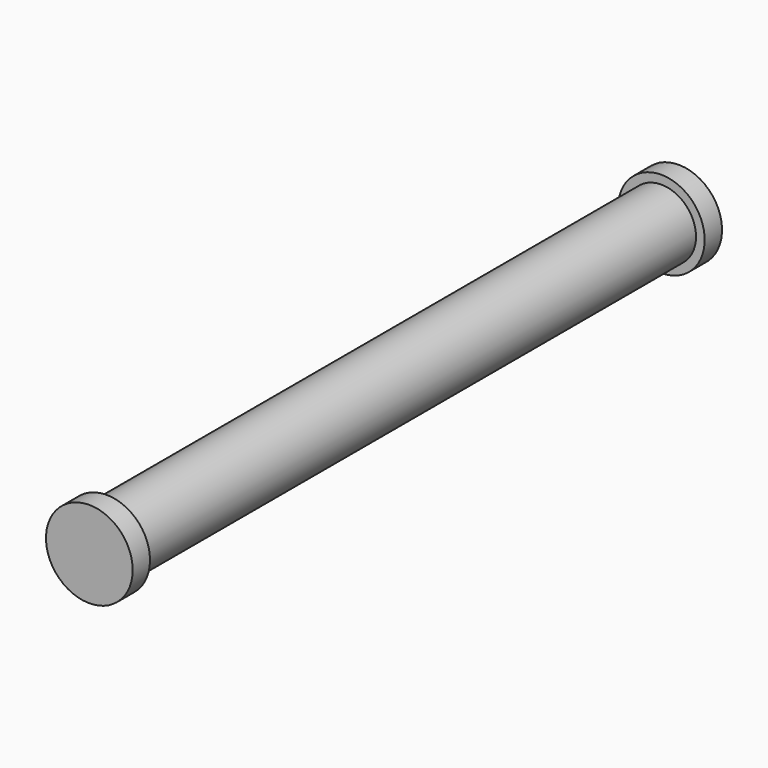
from build123d import *

# Parameters (mm, degrees)
F0_R     = 5.08
F1_DEPTH = 50.8
F2_R     = 6.35
F3_DEPTH = 3.175
F4_R     = 6.35
F5_DEPTH = 3.175


with BuildPart() as f1:
    # F0 (on Front) → F1 (new body, symmetric)
    with BuildSketch(Plane.XZ):
        Circle(F0_R)
    extrude(amount=F1_DEPTH, both=True)

    # F2 (on face) → F3 (join)
    with BuildSketch(Plane.XZ.offset(50.8)):
        Circle(F2_R)
    extrude(amount=F3_DEPTH)

    # F4 (on face) → F5 (join)
    with BuildSketch(Plane(origin=(0, 50.8, 0), x_dir=(-1, 0, 0), z_dir=(0, 1, 0))):
        Circle(F4_R)
    extrude(amount=F5_DEPTH)


solid = f1.part
